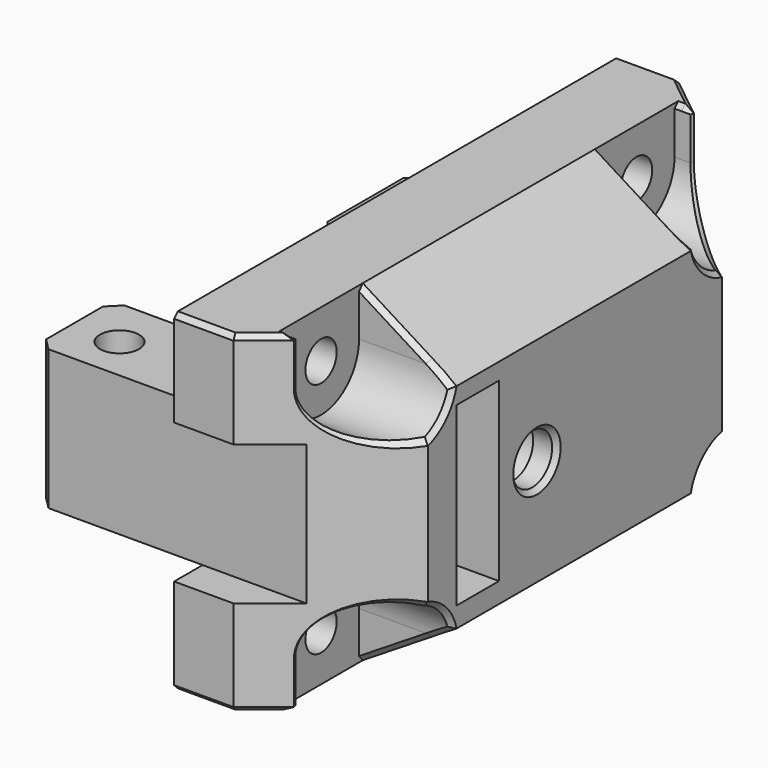
from build123d import *

# Parameters (mm, degrees)
SKETCH030_W           = 47
SKETCH030_H           = 28
PAD010_DEPTH          = 15
POCKET019_DEPTH       = 10.15
SKETCH032_R           = 2.1
POCKET020_DEPTH       = 15.001
CHAMFER015_SIZE2      = 8
CHAMFER015_SIZE       = 10
CHAMFER016_SIZE2      = 10
CHAMFER016_SIZE       = 8
SKETCH033_R           = 1.65
POCKET021_DEPTH       = 7.001
POCKET022_DEPTH       = 8
SKETCH035_W           = 4.5
SKETCH035_H           = 14.887163
POCKET023_DEPTH       = 15.001
SKETCH036_R           = 2.625
POCKET024_DEPTH       = 3
SKETCH037_W           = 10
SKETCH037_H           = 10
SKETCH037_W_2         = 14
SKETCH037_H_2         = 8
PAD011_DEPTH          = 5.9
SKETCH038_W           = 3
SKETCH038_H           = 11.8
POCKET025_DEPTH       = 15.001
SKETCH039_R           = 1.65
POCKET026_DEPTH       = 19.901
CHAMFER017_SIZE       = 1
CHAMFER018_SIZE2      = 5
CHAMFER018_SIZE       = 8
CHAMFER019_SIZE2      = 8
CHAMFER019_SIZE       = 5
CHAMFER020_SIZE       = 0.4
CHAMFER020_FACE95_R   = 2.625
CHAMFER020_FACE95_R_2 = 2.1
POCKET029_DEPTH       = 2
POCKET028_DEPTH       = 3


with BuildPart() as part:
    # Sketch030 → Pad010 (new body)
    with BuildSketch(Plane.YZ):
        with Locations((23.5, 0)):
            Rectangle(SKETCH030_W, SKETCH030_H)
    extrude(amount=PAD010_DEPTH)

    # Sketch031 → Pocket019 (cut, symmetric)
    with BuildSketch(Plane.XY):
        Polygon((0, 27.65), (0, 11.35), (5, 11.35), (8, 14.35), (8, 24.65), (5, 27.65), align=None)
    extrude(amount=POCKET019_DEPTH, both=True, mode=Mode.SUBTRACT)

    # Sketch032 (on Face5 of Pocket019) → Pocket020 (cut, through all)
    with BuildSketch(Plane.YZ.offset(15)):
        with Locations((19.5, 0)):
            Circle(SKETCH032_R)
    extrude(amount=-POCKET020_DEPTH, mode=Mode.SUBTRACT)

    # Chamfer015
    chamfer015_edges = [part.edges().sort_by_distance(p)[0] for p in [
        (15, 0, 0),
    ]]
    chamfer015_side = part.faces().sort_by_distance((7.5, 0, 0))[0]
    chamfer(chamfer015_edges, length=CHAMFER015_SIZE, length2=CHAMFER015_SIZE2, reference=chamfer015_side)

    # Chamfer016
    chamfer016_edges = [part.edges().sort_by_distance(p)[0] for p in [
        (15, 47, 0),
    ]]
    chamfer016_side = part.faces().sort_by_distance((15, 27.602802, 0))[0]
    chamfer(chamfer016_edges, length=CHAMFER016_SIZE, length2=CHAMFER016_SIZE2, reference=chamfer016_side)

    # Sketch033 (on DatumPlane) → Pocket021 (cut, through all)
    with BuildSketch(Plane.YZ.offset(7)):
        with Locations((6.74, 10)):
            Circle(SKETCH033_R)
        with Locations((6.74, -10)):
            Circle(SKETCH033_R)
        with Locations((40, -10)):
            Circle(SKETCH033_R)
        with Locations((40, 10)):
            Circle(SKETCH033_R)
    extrude(amount=-POCKET021_DEPTH, mode=Mode.SUBTRACT)

    # Sketch034 (on Face19 of Pocket021) → Pocket022 (cut)
    with BuildSketch(Plane(origin=(7, 0, 0), x_dir=(0, 1, 0), z_dir=(-1, 0, 0))):
        with BuildLine():
            ThreePointArc((2.74, 10), (6.74, 6), (10.74, 10))
            Line((10.74, 14), (10.74, 10))
            Line((2.74, 14), (10.74, 14))
            Line((2.74, 10), (2.74, 14))
        make_face()
        with BuildLine():
            ThreePointArc((36, 10), (40, 6), (44, 10))
            Line((44, 14), (44, 10))
            Line((36, 14), (44, 14))
            Line((36, 10), (36, 14))
        make_face()
        with BuildLine():
            ThreePointArc((10.74, -10), (6.74, -6), (2.74, -10))
            Line((2.74, -10), (2.74, -14))
            Line((2.74, -14), (10.74, -14))
            Line((10.74, -14), (10.74, -10))
        make_face()
        with BuildLine():
            ThreePointArc((44, -10), (40, -6), (36, -10))
            Line((36, -10), (36, -14))
            Line((36, -14), (44, -14))
            Line((44, -14), (44, -10))
        make_face()
    extrude(amount=-POCKET022_DEPTH, mode=Mode.SUBTRACT)

    # Sketch035 (on Face12 of Pocket022) → Pocket023 (cut, through all)
    with BuildSketch(Plane.YZ.offset(15)):
        with Locations((13.25, 0.151505)):
            Rectangle(SKETCH035_W, SKETCH035_H)
    extrude(amount=-POCKET023_DEPTH, mode=Mode.SUBTRACT)

    # Sketch036 (on Face41 of Pocket023) → Pocket024 (cut)
    with BuildSketch(Plane(origin=(8, 0, 0), x_dir=(0, 1, 0), z_dir=(-1, 0, 0))):
        with Locations((19.5, 0)):
            Circle(SKETCH036_R)
    extrude(amount=-POCKET024_DEPTH, mode=Mode.SUBTRACT)

    # Sketch037 → Pad011 (join, symmetric)
    with BuildSketch(Plane.XY):
        with Locations((-5, 32.65)):
            Rectangle(SKETCH037_W, SKETCH037_H)
        with Locations((-7, 7)):
            Rectangle(SKETCH037_W_2, SKETCH037_H_2)
    extrude(amount=PAD011_DEPTH, both=True)

    # Sketch038 (on Face6 of Pad011) → Pocket025 (cut, through all)
    with BuildSketch(Plane(origin=(0, 0, 0), x_dir=(0, 1, 0), z_dir=(-1, 0, 0))):
        with Locations((1.5, 0)):
            Rectangle(SKETCH038_W, SKETCH038_H)
    extrude(amount=-POCKET025_DEPTH, mode=Mode.SUBTRACT)

    # Sketch039 (on Face29 of Pocket025) → Pocket026 (cut, through all)
    with BuildSketch(Plane(origin=(0, 0, 5.9), x_dir=(0, -1, 0), z_dir=(0, 0, 1))):
        with Locations((-33.25, -5.75)):
            Circle(SKETCH039_R)
        with Locations((-6.74, -10)):
            Circle(SKETCH039_R)
    extrude(amount=-POCKET026_DEPTH, mode=Mode.SUBTRACT)

    # Chamfer017
    chamfer017_edges = [part.edges().sort_by_distance(p)[0] for p in [
        (-10, 37.65, 0),
        (-10, 27.65, 0),
        (-14, 11, 0),
        (-14, 3, 0),
    ]]
    chamfer(chamfer017_edges, length=CHAMFER017_SIZE)

    # Chamfer018
    chamfer018_edges = [part.edges().sort_by_distance(p)[0] for p in [
        (15, 23.37, 14),
    ]]
    chamfer018_side = part.faces().sort_by_distance((6.358492, 23.466491, 14))[0]
    chamfer(chamfer018_edges, length=CHAMFER018_SIZE, length2=CHAMFER018_SIZE2, reference=chamfer018_side)

    # Chamfer019
    chamfer019_edges = [part.edges().sort_by_distance(p)[0] for p in [
        (15, 23.37, -14),
    ]]
    chamfer019_side = part.faces().sort_by_distance((15, 24.71142, -2.512623))[0]
    chamfer(chamfer019_edges, length=CHAMFER019_SIZE, length2=CHAMFER019_SIZE2, reference=chamfer019_side)

    # Chamfer020
    chamfer020_edges = [part.edges().sort_by_distance(p)[0] for p in [
        (2.5, 0, 14),
        (6.7125, 1.37, 14),
        (8.425, 2.74, 12),
        (11.026281, 4.821025, 6.490366),
        (15, 9.662635, 7.269029),
        (14.201832, 10.708483, 9.498855),
        (10.2, 10.74, 12),
        (2.5, 0, -14),
        (6.7125, 1.37, -14),
        (8.425, 2.74, -12),
        (11.026281, 4.821025, -6.490366),
        (15, 9.662635, -7.269029),
        (14.201832, 10.708483, -9.498855),
        (10.2, 10.74, -12),
        (10.2, 36, -12),
        (14.201832, 36.031517, -9.498855),
        (15, 37.171573, -7.171573),
        (11.195624, 42.0435, -6.56138),
        (8.75, 44, -12),
        (6.875, 45.5, -14),
        (2.5, 47, -14),
        (2.5, 47, 14),
        (6.875, 45.5, 14),
        (8.75, 44, 12),
        (11.195624, 42.0435, 6.56138),
        (15, 37.171573, 7.171573),
        (10.2, 36, 12),
        (14.201832, 36.031517, 9.498855),
        (7.7125, 2.74, -14),
        (7.875, 44, -14),
        (7.875, 44, 14),
        (7.7125, 2.74, 14),
        (15, 17.4, 0),
    ]]
    chamfer(chamfer020_edges, length=CHAMFER020_SIZE)

    # Chamfer020 Face95 → Pocket029 (cut)
    with BuildSketch(Plane(origin=(11, 19.5, 0), x_dir=(0, 1, 0), z_dir=(-1, 0, 0))):
        Circle(CHAMFER020_FACE95_R)
        Circle(CHAMFER020_FACE95_R_2, mode=Mode.SUBTRACT)
    extrude(amount=-POCKET029_DEPTH, mode=Mode.SUBTRACT)


with BuildPart() as part_1:
    # Body003 placement: moved
    add(part.part.moved(Location((42.5, 0, 15))))

    # Sketch042 (on Face47 of Clone) → Pocket028 (cut)
    with BuildSketch(Plane(origin=(50.5, 0, 15), x_dir=(0, -1, 0), z_dir=(-1, 0, 0))):
        Polygon((-19.5, -4.2), (-15.862693, -2.1), (-15.862693, 2.1), (-19.5, 4.2), (-23.137307, 2.1), (-23.137307, -2.1), align=None)
    extrude(amount=-POCKET028_DEPTH, mode=Mode.SUBTRACT)


with BuildPart() as part_2:
    # Body003002 placement: moved
    add(part_1.part.moved(Location((0, 0, 83))))


solid = part_2.part
